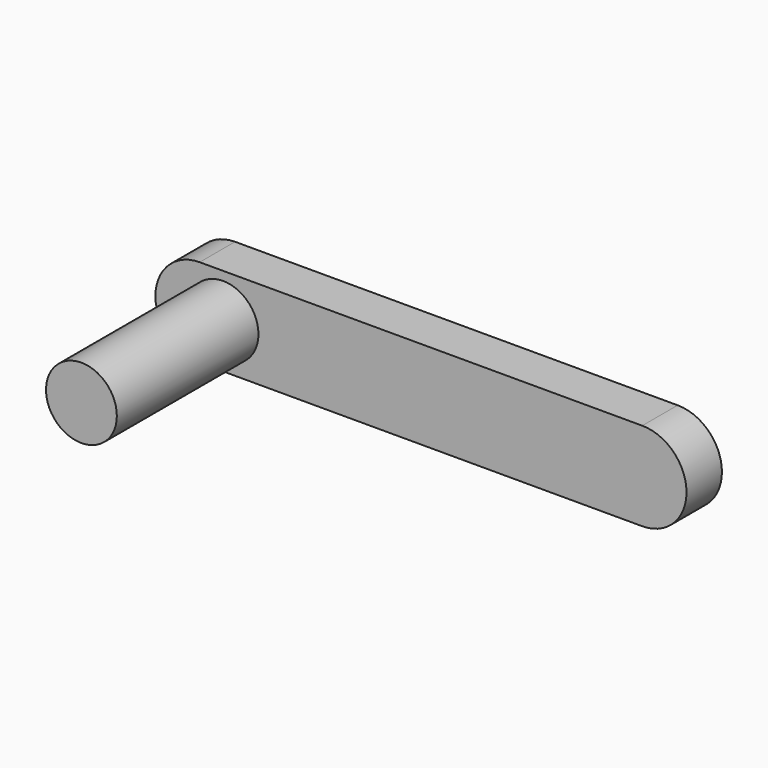
from build123d import *

# Parameters (mm, degrees)
F1_DEPTH = 3.175
F2_R     = 2.54
F3_DEPTH = 12.7
F4_R     = 1.1938
F5_DEPTH = 2.54


with BuildPart() as f1:
    # F0 (on Front) → F1 (new body)
    with BuildSketch(Plane.XZ):
        with BuildLine():
            Line((18.159252, 3.175), (-13.590748, 3.175))
            ThreePointArc((-13.590748, 3.175), (-16.765748, 0), (-13.590748, -3.175))
            Line((-13.590748, -3.175), (18.159252, -3.175))
            ThreePointArc((18.159252, -3.175), (21.334252, 0), (18.159252, 3.175))
        make_face()
    extrude(amount=F1_DEPTH)

    # F2 (on face) → F3 (join)
    with BuildSketch(Plane.XZ.offset(3.175)):
        with Locations((-11.914348, 0)):
            Circle(F2_R)
    extrude(amount=F3_DEPTH)

    # F4 (on face) → F5 (join)
    with BuildSketch(Plane(origin=(0, 0, 0), x_dir=(-1, 0, 0), z_dir=(0, 1, 0))):
        with Locations((-16.254252, 0)):
            Circle(F4_R)
        with Locations((0.255748, 0)):
            Circle(F4_R)
    extrude(amount=F5_DEPTH)


solid = f1.part
